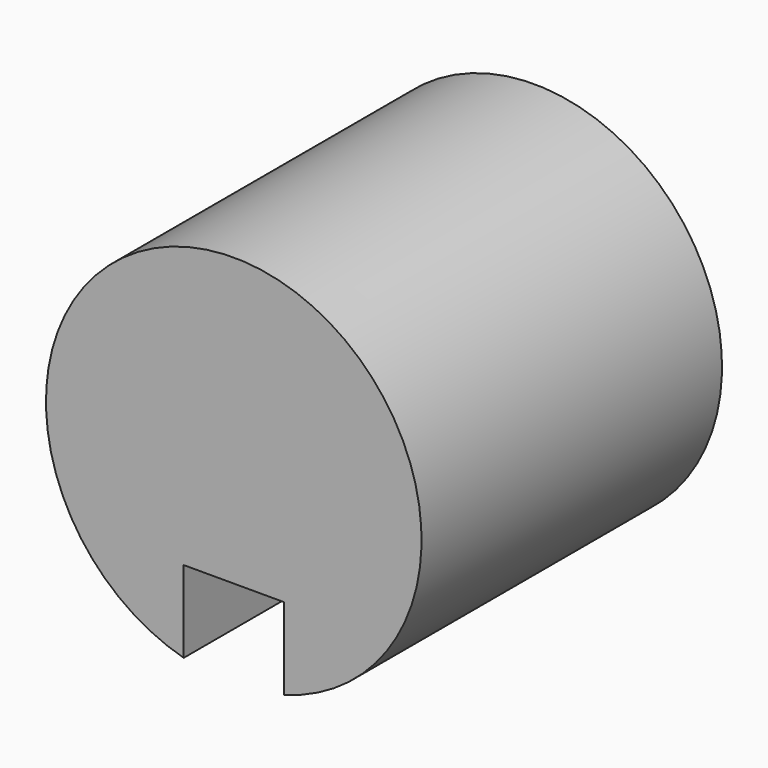
from build123d import *

# Parameters (mm, degrees)
F0_R     = 38.1
F1_DEPTH = 76.2
F3_DEPTH = 76.201


with BuildPart() as f1:
    # F0 (on Front) → F1 (new body)
    with BuildSketch(Plane.XZ):
        Circle(F0_R)
    extrude(amount=F1_DEPTH)

    # F2 (on face) → F3 (cut, through all)
    with BuildSketch(Plane.XZ.offset(76.2)):
        with BuildLine():
            Line((-10.16, -20.138316), (-10.16, -36.720354))
            ThreePointArc((-10.16, -36.720354), (0, -38.1), (10.16, -36.720354))
            Line((10.16, -36.720354), (10.16, -20.138316))
            Line((10.16, -20.138316), (-10.16, -20.138316))
        make_face()
    extrude(amount=-F3_DEPTH, mode=Mode.SUBTRACT)


solid = f1.part
